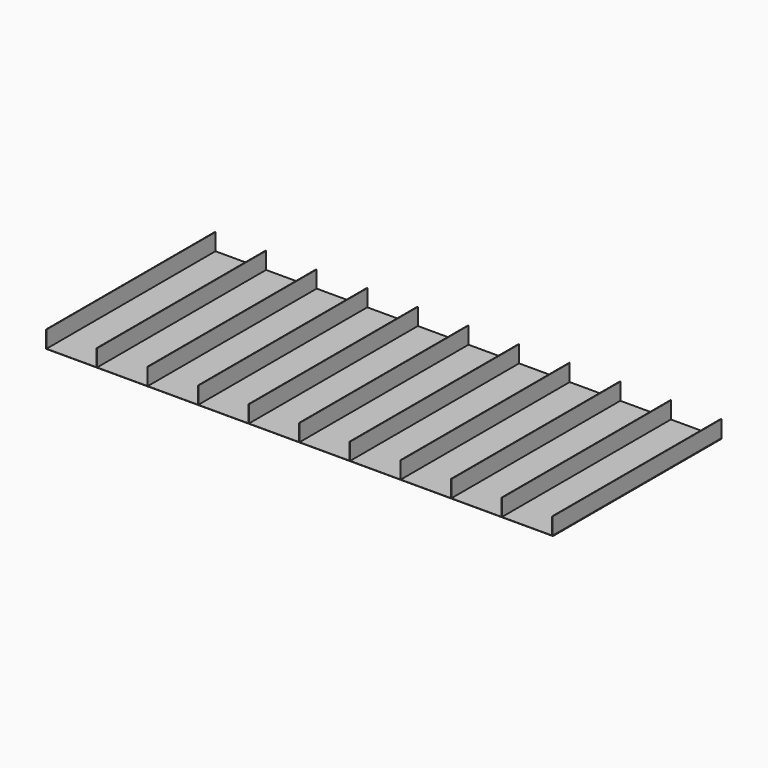
from build123d import *

# Parameters (mm, degrees)
F0_W     = 5
F0_H     = 200
F1_DEPTH = 2500


with BuildPart() as f1:
    # F0 (on Front) → F1 (new body)
    with BuildSketch(Plane.XZ):
        with Locations((-2997.5, 111.214954)):
            Rectangle(F0_W, F0_H)
        Polygon((-2995, 11.214954), (-3000, 11.214954), (-3000, 8.214954), (-2401, 8.214954), (-1802, 8.214954), (-1203, 8.214954), (-604, 8.214954), (-5, 8.214954), (594, 8.214954), (1193, 8.214954), (1792, 8.214954), (2391, 8.214954), (3000, 8.214954), (3000, 11.214954), (2995, 11.214954), (2990, 11.214954), (2396, 11.214954), (2391, 11.214954), (1797, 11.214954), (1792, 11.214954), (1198, 11.214954), (1193, 11.214954), (599, 11.214954), (594, 11.214954), (0, 11.214954), (-5, 11.214954), (-599, 11.214954), (-604, 11.214954), (-1198, 11.214954), (-1203, 11.214954), (-1797, 11.214954), (-1802, 11.214954), (-2396, 11.214954), (-2401, 11.214954), align=None)
        with Locations((-2398.5, 111.214954)):
            Rectangle(F0_W, F0_H)
        with Locations((-1799.5, 111.214954)):
            Rectangle(F0_W, F0_H)
        with Locations((-1200.5, 111.214954)):
            Rectangle(F0_W, F0_H)
        with Locations((-601.5, 111.214954)):
            Rectangle(F0_W, F0_H)
        with Locations((-2.5, 111.214954)):
            Rectangle(F0_W, F0_H)
        with Locations((596.5, 111.214954)):
            Rectangle(F0_W, F0_H)
        with Locations((2992.5, 111.214954)):
            Rectangle(F0_W, F0_H)
        with Locations((1195.5, 111.214954)):
            Rectangle(F0_W, F0_H)
        with Locations((2393.5, 111.214954)):
            Rectangle(F0_W, F0_H)
        with Locations((1794.5, 111.214954)):
            Rectangle(F0_W, F0_H)
    extrude(amount=F1_DEPTH)


solid = f1.part
